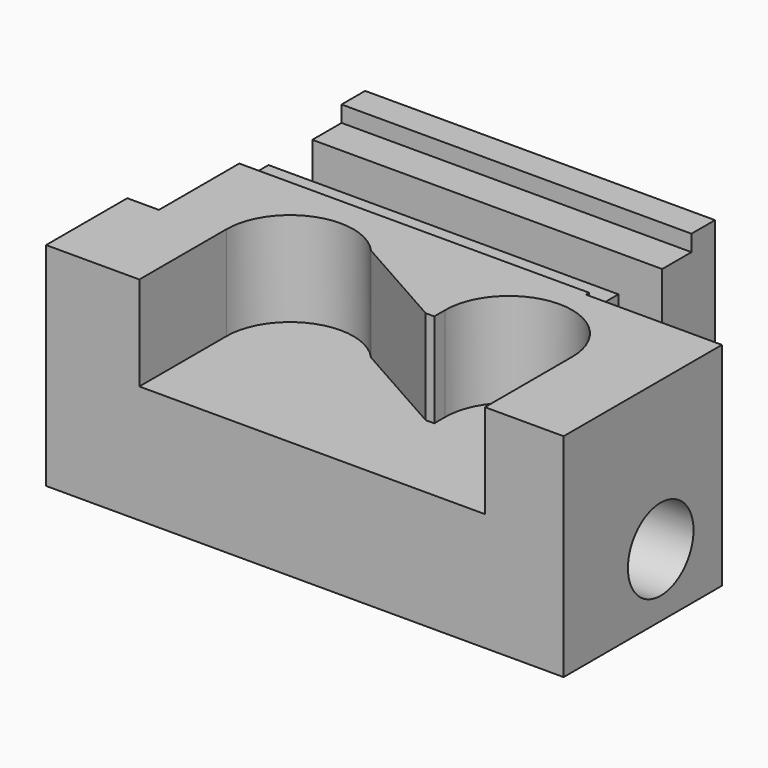
from build123d import *

# Parameters (mm, degrees)
F0_W     = 64.77
F0_H     = 44.958
F1_DEPTH = 26.543
F2_W     = 3.9624
F2_H     = 32.258
F2_W_2   = 17.018
F2_H_2   = 20.193
F3_DEPTH = 26.544
F4_W     = 6.8494506996
F4_H     = 2.032
F5_DEPTH = 47.753
F7_DEPTH = 11.7856
F8_R     = 5.1308
F9_DEPTH = 31.75


with BuildPart() as f1:
    # F0 (on Top) → F1 (new body)
    with BuildSketch(Plane.XY):
        Rectangle(F0_W, F0_H)
    extrude(amount=F1_DEPTH)

    # F2 (on face) → F3 (cut, through all)
    with BuildSketch(Plane.XY.offset(26.543)):
        with Locations((-30.4038, 6.35)):
            Rectangle(F2_W, F2_H)
        with Locations((23.876, 12.3825)):
            Rectangle(F2_W_2, F2_H_2)
    extrude(amount=-F3_DEPTH, mode=Mode.SUBTRACT)

    # F4 (on face) → F5 (cut, through all)
    with BuildSketch(Plane.YZ.offset(15.367)):
        with BuildLine():
            Line((7.3680459394, 24.511), (7.3680459394, 14.8504350737))
            ThreePointArc((7.3680459394, 14.8504350737), (10.8413795833, 11.3033136722), (14.2174966391, 14.9430870806))
            Line((14.2174966391, 14.9430870806), (14.2174966391, 24.511))
            Line((14.2174966391, 24.511), (7.3680459394, 24.511))
        make_face()
        Polygon((2.7917712892, 24.511), (7.3680459394, 24.511), (7.3680459394, 26.543), (14.2174966391, 26.543), (14.2174966391, 24.511), (18.7937712892, 24.511), (18.7937712892, 28.575), (2.7917712892, 28.575), align=None)
        with Locations((10.7927712892, 25.527)):
            Rectangle(F4_W, F4_H)
    extrude(amount=-F5_DEPTH, mode=Mode.SUBTRACT)

    # F6 (on face) → F7 (cut)
    with BuildSketch(Plane.XY.offset(26.543)):
        with BuildLine():
            Line((22.5425, -22.479), (22.5425, -8.8392))
            ThreePointArc((22.5425, -8.8392), (14.5724547472, -0.9017667211), (6.6677668834, -8.9042899584))
            Line((6.6677668834, -8.9042899584), (6.6677668834, -10.5686287108))
            Line((6.6677668834, -10.5686287108), (5.5927410722, -10.5686287108))
            Line((5.5927410722, -10.5686287108), (-6.8503879466, -3.5582287108))
            ThreePointArc((-6.8503879466, -3.5582287108), (-15.6017772044, -1.421651907), (-20.7137, -8.8392))
            Line((-20.7137, -8.8392), (-20.7137, -22.479))
            Line((-20.7137, -22.479), (22.5425, -22.479))
        make_face()
    extrude(amount=-F7_DEPTH, mode=Mode.SUBTRACT)

    # F8 (on face) → F9 (cut)
    with BuildSketch(Plane.YZ.offset(32.385)):
        with Locations((-7.2898, 7.9248)):
            Circle(F8_R)
    extrude(amount=-F9_DEPTH, mode=Mode.SUBTRACT)


solid = f1.part
